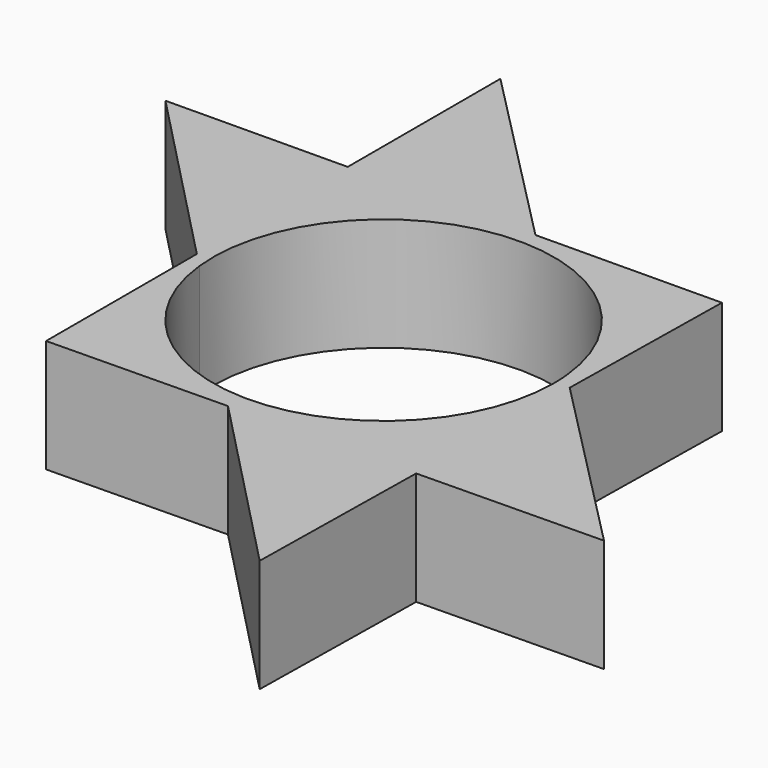
from build123d import *

# Parameters (mm, degrees)
F1_DEPTH = 45.72
F2_T     = -2.54


with BuildPart() as f1:
    # F0 (on Top) → F1 (new body)
    with BuildSketch(Plane.XY):
        Polygon((73.497205615, -75.4195482397), (148.5320329666, -74.2643550038), (74.735747165, 0.6356836955), align=None)
        with BuildLine():
            Line((73.497205615, -75.4195482397), (74.735747165, 0.6356836955))
            Line((74.735747165, 0.6356836955), (68.5921626755, 6.8711562673))
            ThreePointArc((68.5921626755, 6.8711562673), (68.8495817611, 3.4398634101), (68.9354594455, 0))
            ThreePointArc((68.9354594455, 0), (45.1804093562, -52.0656141744), (-9.7128356749, -68.247772067))
            Line((-9.7128356749, -68.247772067), (-1.652113798, -76.5765041298))
            Line((-1.652113798, -76.5765041298), (73.497205615, -75.4195482397))
        make_face()
        with BuildLine():
            Line((68.5921626755, 6.8711562673), (74.735747165, 0.6356836955))
            Line((74.735747165, 0.6356836955), (75.9635642171, 76.0323554277))
            Line((75.9635642171, 76.0323554277), (1.0778976806, 75.3952155197))
            Line((1.0778976806, 75.3952155197), (7.8886438881, 68.4826026562))
            ThreePointArc((7.8886438881, 68.4826026562), (49.1052036417, 48.3815723625), (68.5921626755, 6.8711562673))
        make_face()
        Polygon((72.235122323, -152.920410037), (73.497205615, -75.4195482397), (-1.652113798, -76.5765041298), align=None)
        with BuildLine():
            Line((-74.3026211858, -77.6949897408), (-1.652113798, -76.5765041298))
            Line((-1.652113798, -76.5765041298), (-9.7128356749, -68.247772067))
            ThreePointArc((-9.7128356749, -68.247772067), (-49.5352113263, -47.9412182554), (-68.5288572015, -7.4761821553))
            Line((-68.5288572015, -7.4761821553), (-74.3026211858, -1.5104468336))
            Line((-74.3026211858, -1.5104468336), (-74.3026211858, -77.6949897408))
        make_face()
        with BuildLine():
            ThreePointArc((-68.5288572015, -7.4761821553), (-48.5977686235, 48.891251301), (7.8886438881, 68.4826026562))
            Line((7.8886438881, 68.4826026562), (1.0778976806, 75.3952155197))
            Line((1.0778976806, 75.3952155197), (-74.3026211858, 74.7538653245))
            Line((-74.3026211858, 74.7538653245), (-74.3026211858, -1.5104468336))
            Line((-74.3026211858, -1.5104468336), (-68.5288572015, -7.4761821553))
        make_face()
        Polygon((-74.3026211858, 74.7538653245), (1.0778976806, 75.3952155197), (-74.3026211858, 151.9031822681), align=None)
        Polygon((-74.3026211858, -1.5104468336), (-74.3026211858, 74.7538653245), (-147.5100070238, 74.1310045123), align=None)
    extrude(amount=F1_DEPTH)

    # F2
    f2_openings = [f1.faces().sort_by_distance(p)[0] for p in [
        (108.607021, -39.796599, 0),
    ]]
    offset(amount=F2_T, openings=f2_openings, kind=Kind.INTERSECTION)


solid = f1.part
